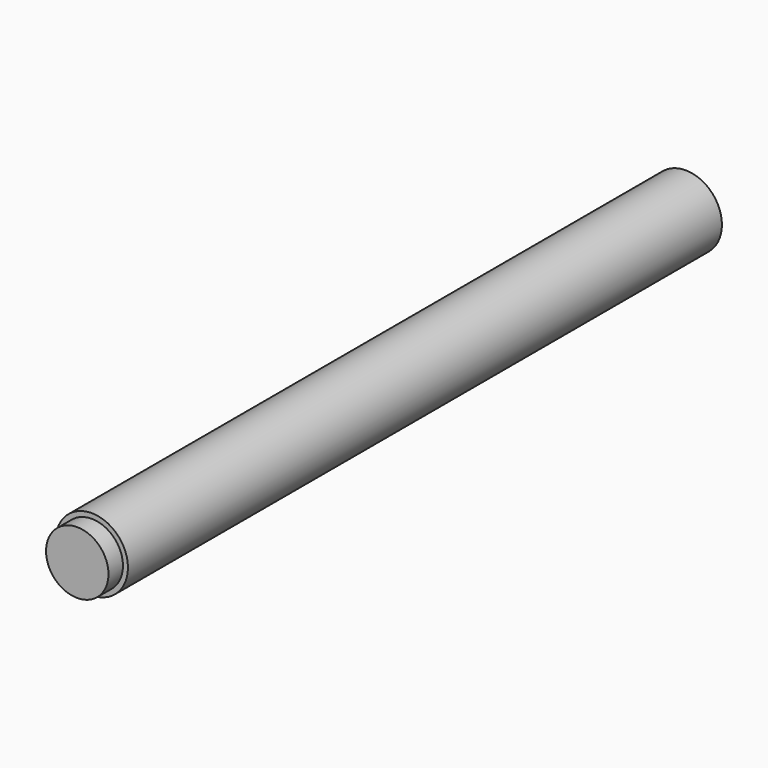
from build123d import *

# Parameters (mm, degrees)
F0_R      = 50
F1_DEPTH  = 500
F2_R      = 44.431358
F1_FACE_R = 50
F3_DEPTH  = 25
F4_R      = 43.104754
F5_DEPTH  = 25


with BuildPart() as f1:
    # F0 (on Front) → F1 (new body, symmetric)
    with BuildSketch(Plane.XZ):
        Circle(F0_R)
    extrude(amount=F1_DEPTH, both=True)

    # F2 (on Front) + F1_face (on face) → F3 (join)
    with BuildSketch(Plane.XZ):
        Circle(F2_R)
    with BuildSketch(Plane.XZ.offset(500)):
        Circle(F1_FACE_R)
    extrude(amount=F3_DEPTH)

    # F4 (on face) → F5 (join)
    with BuildSketch(Plane.XZ.offset(525)):
        Circle(F4_R)
    extrude(amount=F5_DEPTH)


solid = f1.part
